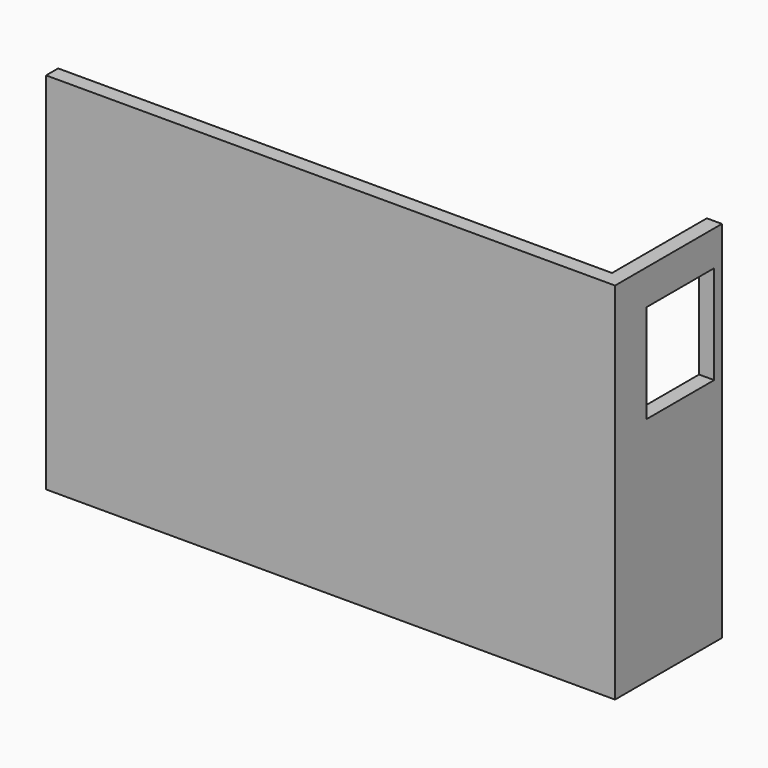
from build123d import *

# Parameters (mm, degrees)
BOX_W         = 91.62
BOX_H         = 2.5
BOX_DEPTH     = 60.3
SKETCH_R      = 2
PAD_DEPTH     = 3
SKETCH001_W   = 22.1
SKETCH001_H   = 60.3
SKETCH001_W_2 = 14
SKETCH001_H_2 = 16.304
PAD001_DEPTH  = 2.5
SKETCH002_R   = 1.1
PAD002_DEPTH  = 2.5


with BuildPart() as part:
    # Box → Box (new body)
    with BuildSketch(Plane(origin=(-45.5, -6.5, -29), x_dir=(1, 0, 0), z_dir=(0, 0, 1))):
        with Locations((45.81, 1.25)):
            Rectangle(BOX_W, BOX_H)
    extrude(amount=BOX_DEPTH)

    # Sketch → Pad (new body)
    with BuildSketch(Plane(origin=(-45.5, -4, -29), x_dir=(-1, 0, 0), z_dir=(0, 1, 0))):
        with Locations((-6.5, 4.5)):
            Circle(SKETCH_R)
        with Locations((-64.5, 4.5)):
            Circle(SKETCH_R)
        with Locations((-64.5, 53.5)):
            Circle(SKETCH_R)
        with Locations((-6.5, 53.5)):
            Circle(SKETCH_R)
    extrude(amount=PAD_DEPTH)

    # Sketch001 → Pad001 (new body)
    with BuildSketch(Plane(origin=(46.12, -6.5, -29), x_dir=(0, 1, 0), z_dir=(1, 0, 0))):
        with Locations((11.05, 30.15)):
            Rectangle(SKETCH001_W, SKETCH001_H)
        with Locations((13.5, 46.348)):
            Rectangle(SKETCH001_W_2, SKETCH001_H_2, mode=Mode.SUBTRACT)
    extrude(amount=PAD001_DEPTH)

    # Sketch002 → Pad002 (new body)
    with BuildSketch(Plane(origin=(-45.5, -1, -29), x_dir=(-1, 0, 0), z_dir=(0, 1, 0))):
        with Locations((-64.5, 4.5)):
            Circle(SKETCH002_R)
        with Locations((-64.5, 53.5)):
            Circle(SKETCH002_R)
        with Locations((-6.5, 53.5)):
            Circle(SKETCH002_R)
        with Locations((-6.5, 4.5)):
            Circle(SKETCH002_R)
    extrude(amount=PAD002_DEPTH)


solid = part.part
